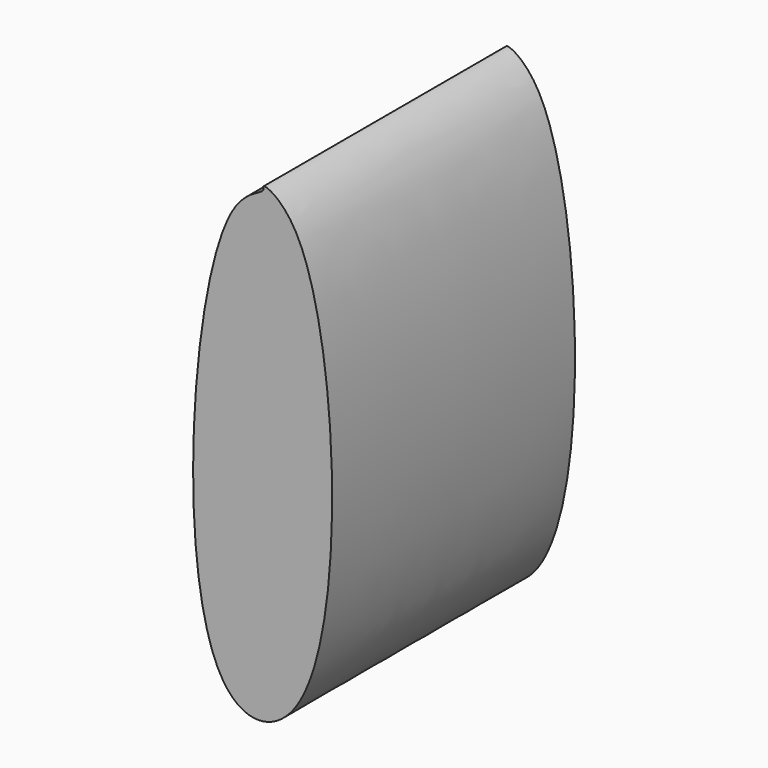
from build123d import *

# Parameters (mm, degrees)
F1_DEPTH = 88.646


with BuildPart() as f1:
    # F0 (on Front) → F1 (new body)
    with BuildSketch(Plane.XZ):
        with BuildLine():
            add(Edge.make_bspline(
                [(9.617805481, 46.558920294), (5.5340596534, 54.0795425573), (-0.9126197891, 56.5335166328), (0.8669101051, 53.3957703489), (-19.533842178, 51.1856518834), (-28.1980036607, -86.3525848131), (26.1007895773, -83.0846384469), (22.0826514154, 23.6036723914), (9.617805481, 46.558920294)],
                knots=[0, 0, 0, 0, 0.1039061543, 0.1308552184, 0.2297020655, 0.5480474901, 0.682846519, 1, 1, 1, 1], degree=3))
        make_face()
    extrude(amount=F1_DEPTH)


solid = f1.part
